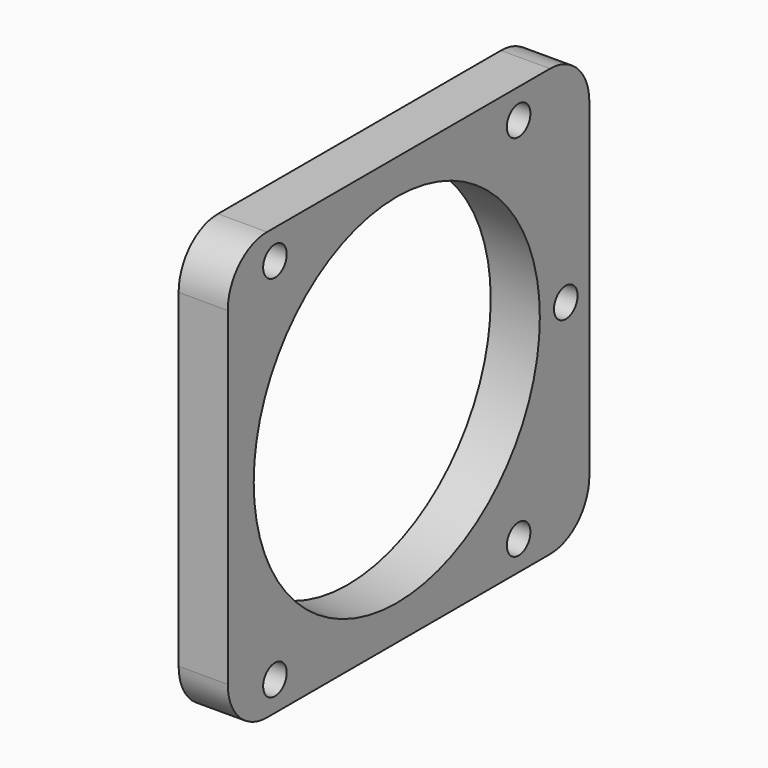
from build123d import *

# Parameters (mm, degrees)
SKETCH_W     = 46
SKETCH_H     = 43.5
SKETCH_R     = 18.2
PAD_DEPTH    = 5
SKETCH006_R  = 1.5
POCKET_DEPTH = 5.001
FILLET_R     = 5
FILLET001_R  = 5


with BuildPart() as part:
    # Sketch → Pad (new body)
    with BuildSketch(Plane.YZ):
        with Locations((20, 15.75)):
            Rectangle(SKETCH_W, SKETCH_H)
        with Locations((18.5, 15.75)):
            Circle(SKETCH_R, mode=Mode.SUBTRACT)
    extrude(amount=PAD_DEPTH)

    # Sketch006 → Pocket (cut, through all)
    with BuildSketch(Plane.YZ.offset(5)):
        with Locations((3, 34.5)):
            Circle(SKETCH006_R)
        with Locations((34, 34.5)):
            Circle(SKETCH006_R)
        with Locations((40, 15.75)):
            Circle(SKETCH006_R)
        with Locations((34, -3)):
            Circle(SKETCH006_R)
        with Locations((3, -3)):
            Circle(SKETCH006_R)
    extrude(amount=-POCKET_DEPTH, mode=Mode.SUBTRACT)

    # Fillet
    fillet_edges = [part.edges().sort_by_distance(p)[0] for p in [
        (2.5, 43, -6),
        (2.5, -3, -6),
    ]]
    fillet(fillet_edges, radius=FILLET_R)

    # Fillet001
    fillet001_edges = [part.edges().sort_by_distance(p)[0] for p in [
        (2.5, 43, 37.5),
        (2.5, -3, 37.5),
    ]]
    fillet(fillet001_edges, radius=FILLET001_R)


solid = part.part
